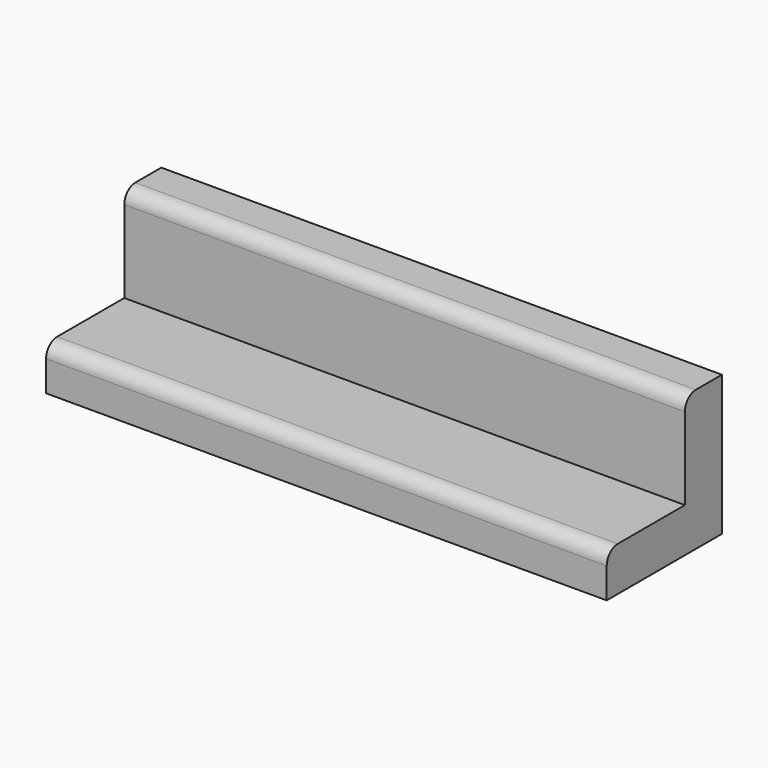
from build123d import *

# Parameters (mm, degrees)
F1_DEPTH = 25.4


with BuildPart() as f1:
    # F0 (on Right) → F1 (new body)
    with BuildSketch(Plane.YZ):
        with BuildLine():
            Line((-10.661009, 1.37725), (-10.661009, 0))
            Line((-10.661009, 0), (-4.136238, 0))
            Line((-4.136238, 0), (-4.136238, 6.35))
            Line((-4.136238, 6.35), (-5.608479, 6.35))
            ThreePointArc((-5.608479, 6.35), (-6.050426, 6.16694), (-6.233486, 5.724993))
            Line((-6.233486, 5.724993), (-6.233486, 2.002257))
            Line((-6.233486, 2.002257), (-10.036002, 2.002257))
            ThreePointArc((-10.036002, 2.002257), (-10.477949, 1.819196), (-10.661009, 1.37725))
        make_face()
    extrude(amount=F1_DEPTH)


solid = f1.part
